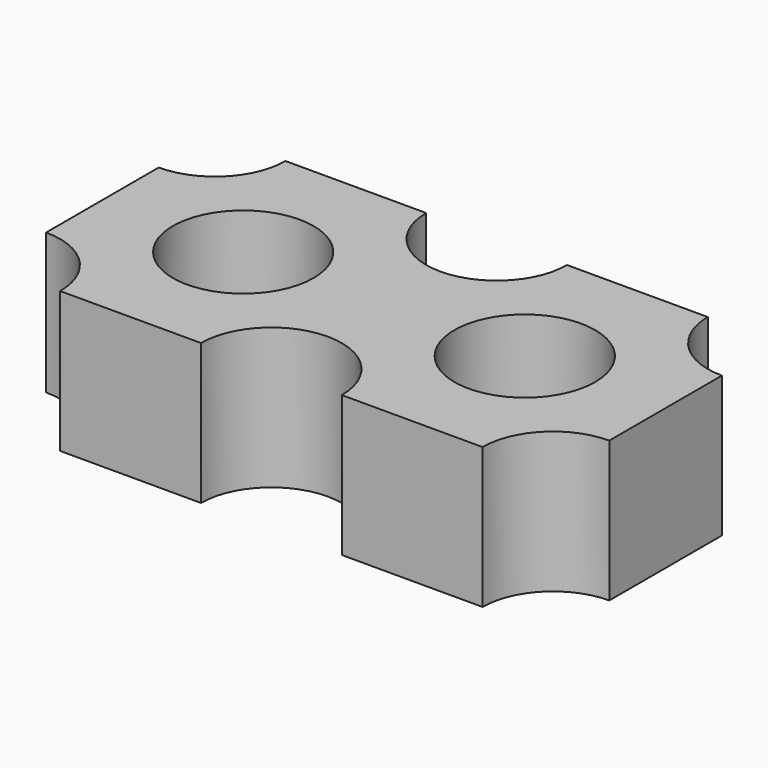
from build123d import *

# Parameters (mm, degrees)
F0_R     = 12.7
F1_DEPTH = 25.4


with BuildPart() as f1:
    # F0 (on Top) → F1 (new body)
    with BuildSketch(Plane.XY):
        with BuildLine():
            Line((-50.8, 12.7), (-50.8, 0))
            Line((-50.8, 0), (-50.8, -12.7))
            ThreePointArc((-50.8, -12.7), (-41.819744, -16.419744), (-38.1, -25.4))
            Line((-38.1, -25.4), (-12.7, -25.4))
            ThreePointArc((-12.7, -25.4), (0, -12.7), (12.7, -25.4))
            Line((12.7, -25.4), (38.1, -25.4))
            ThreePointArc((38.1, -25.4), (41.819744, -16.419744), (50.8, -12.7))
            Line((50.8, -12.7), (50.8, 0))
            Line((50.8, 0), (50.8, 12.7))
            ThreePointArc((50.8, 12.7), (41.819744, 16.419744), (38.1, 25.4))
            Line((38.1, 25.4), (12.7, 25.4))
            ThreePointArc((12.7, 25.4), (0, 12.7), (-12.7, 25.4))
            Line((-12.7, 25.4), (-38.1, 25.4))
            ThreePointArc((-38.1, 25.4), (-41.819744, 16.419744), (-50.8, 12.7))
        make_face()
        with Locations((-25.4, 0)):
            Circle(F0_R, mode=Mode.SUBTRACT)
        with Locations((25.4, 0)):
            Circle(F0_R, mode=Mode.SUBTRACT)
    extrude(amount=F1_DEPTH)


solid = f1.part
